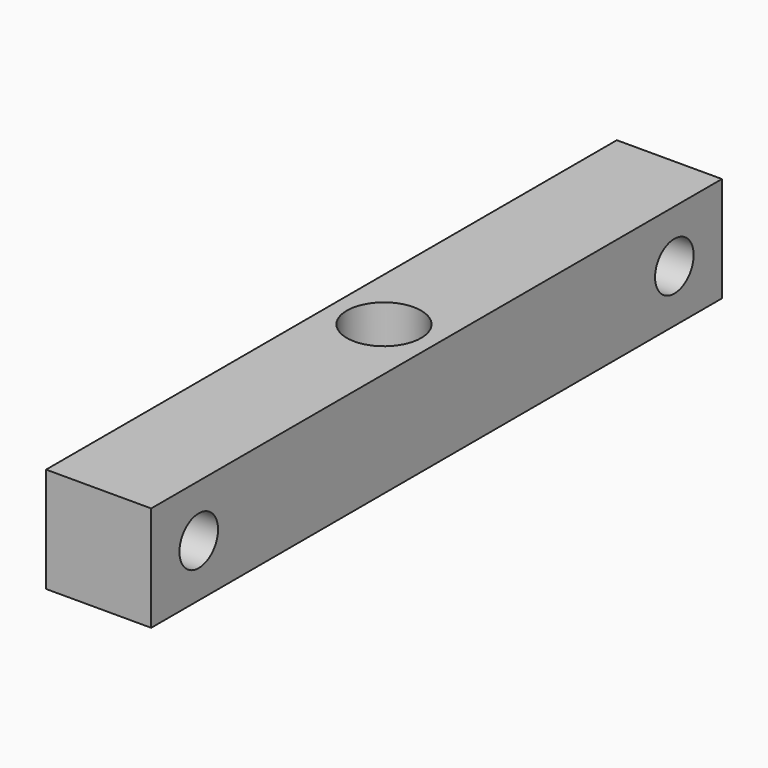
from build123d import *

# Parameters (mm, degrees)
F0_W     = 22.4536
F0_H     = 22.4536
F1_DEPTH = 152.4
F2_R     = 7.9375
F3_DEPTH = 22.4546
F4_R     = 5.1562
F5_DEPTH = 22.4546


with BuildPart() as f1:
    # F0 (on Front) → F1 (new body)
    with BuildSketch(Plane.XZ):
        with Locations((27.084826, 25.844949)):
            Rectangle(F0_W, F0_H)
    extrude(amount=F1_DEPTH)

    # F2 (on face) → F3 (cut, through all)
    with BuildSketch(Plane.XY.offset(37.071749)):
        with Locations((27.084826, -76.2)):
            Circle(F2_R)
    extrude(amount=-F3_DEPTH, mode=Mode.SUBTRACT)

    # F4 (on face) → F5 (cut, through all)
    with BuildSketch(Plane.YZ.offset(38.311626)):
        with Locations((-139.7, 25.844949)):
            Circle(F4_R)
        with Locations((-12.7, 25.844949)):
            Circle(F4_R)
    extrude(amount=-F5_DEPTH, mode=Mode.SUBTRACT)


solid = f1.part
